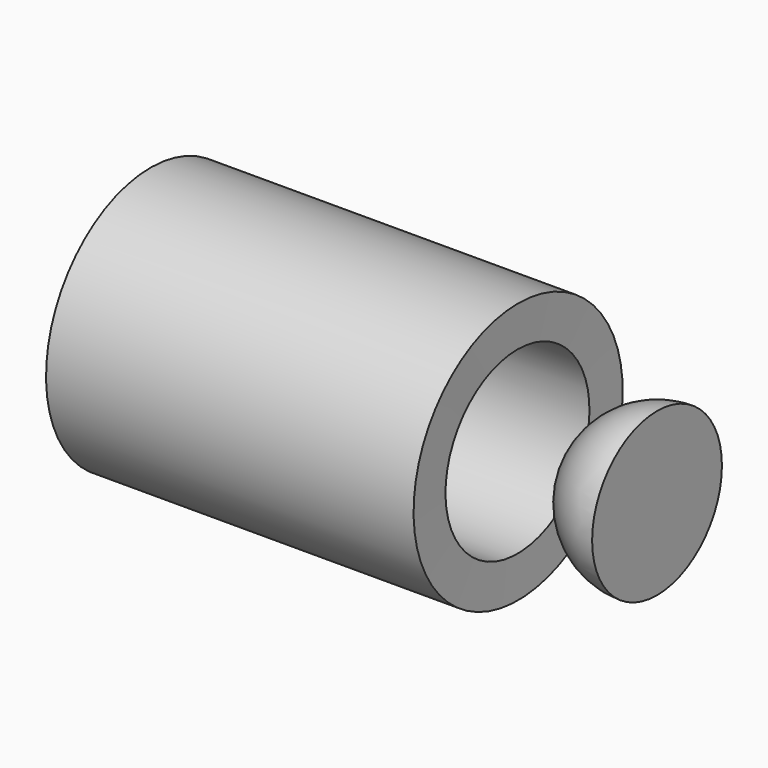
from build123d import *

# Parameters (mm, degrees)
F1_ANGLE_BACK = 90
F1_ANGLE      = 180


with BuildPart() as f1:
    # F0 (on Front) → F1 (revolve)
    with BuildSketch(Plane.XZ, mode=Mode.PRIVATE) as f1_sk:
        with BuildLine():
            Line((0, -13.3402015964), (0, 13.3402015964))
            ThreePointArc((0, 13.3402015964), (-13.3402015964, 0), (0, -13.3402015964))
        make_face()
    revolve(f1_sk.sketch.rotate(Axis((0, 0, 0), (0, 0, -1)), -F1_ANGLE_BACK), axis=Axis((0, 0, 0), (0, 0, -1)), revolution_arc=F1_ANGLE)


with BuildPart() as f3:
    # F2 (on Front) → F3 (revolve)
    with BuildSketch(Plane.XZ):
        Polygon((-83.2727700472, 14.7937349975), (-22.9473486543, 14.7937349975), (-22.8374674916, 21.4965604246), (-83.2727700472, 21.4965604246), align=None)
    revolve(axis=Axis((-53.1100593507, 0, 0), (-1, 0, 0)))


solid = Compound([f1.part, f3.part])
